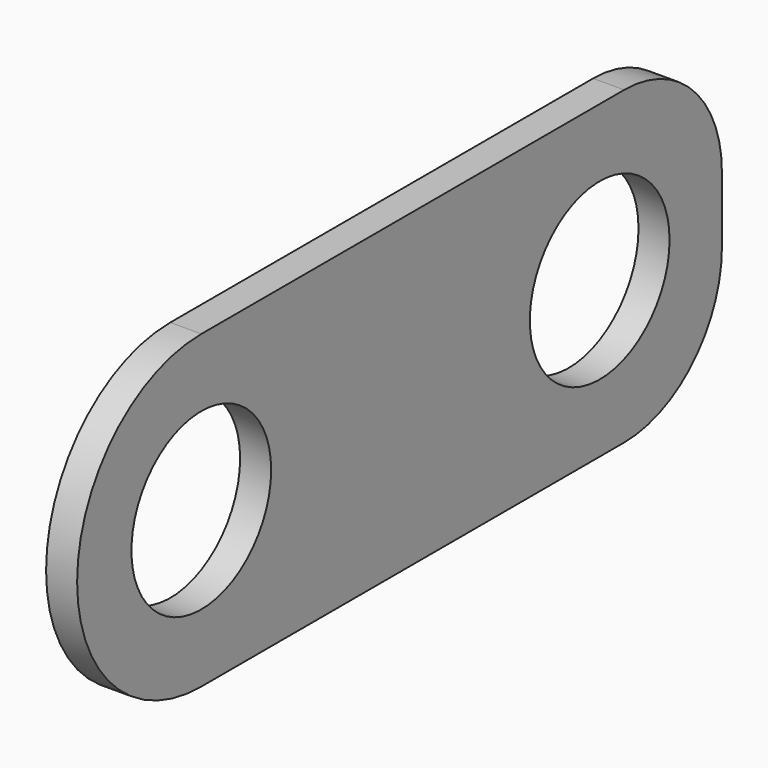
from build123d import *

# Parameters (mm, degrees)
F0_R     = 14.2875
F1_DEPTH = 5.08


with BuildPart() as f1:
    # F0 (on Right) → F1 (new body)
    with BuildSketch(Plane.YZ):
        with BuildLine():
            Line((86.49098, 25.4), (0, 25.4))
            ThreePointArc((0, 25.4), (-25.4, 0), (0, -25.4))
            Line((0, -25.4), (86.49098, -25.4))
            ThreePointArc((86.49098, -25.4), (100.633116, -19.542136), (106.49098, -5.4))
            Line((106.49098, -5.4), (106.49098, 5.4))
            ThreePointArc((106.49098, 5.4), (100.633116, 19.542136), (86.49098, 25.4))
        make_face()
        Circle(F0_R, mode=Mode.SUBTRACT)
        with Locations((81.49098, 0)):
            Circle(F0_R, mode=Mode.SUBTRACT)
    extrude(amount=F1_DEPTH)


solid = f1.part
